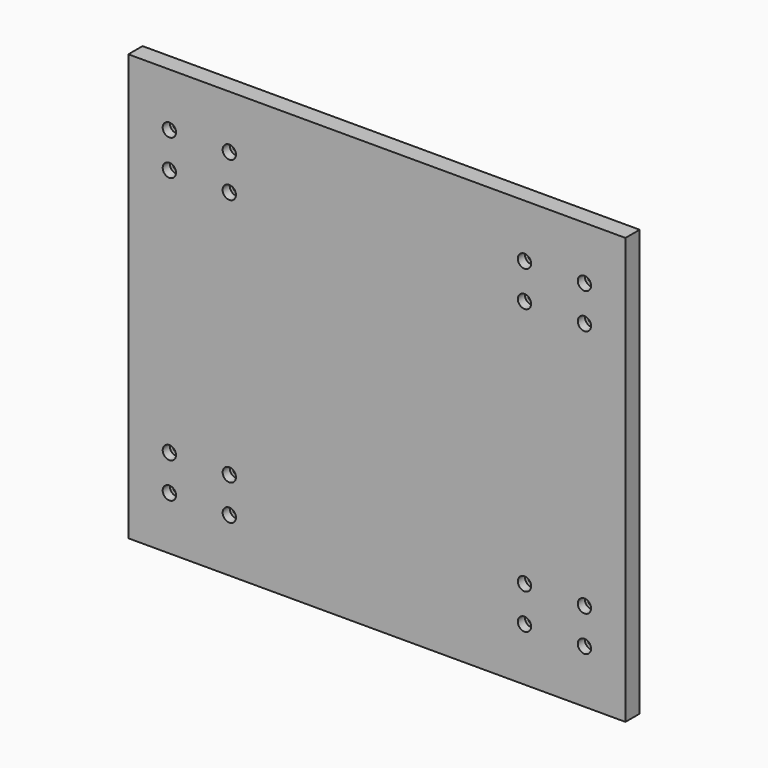
from build123d import *

# Parameters (mm, degrees)
F0_W           = 355.6
F0_H           = 304.8
F1_DEPTH       = 12.7
F3_D           = 4.7752
F3_CBORE_D     = 9.525
F3_CBORE_DEPTH = 6.35


with BuildPart() as f1:
    # F0 (on Front) → F1 (new body)
    with BuildSketch(Plane.XZ):
        with Locations((177.8, 152.4)):
            Rectangle(F0_W, F0_H)
    extrude(amount=F1_DEPTH)

    # F3 (through all)
    with Locations(Plane.XZ.offset(12.7)):
        with Locations((72.2122, 266.7), (72.2122, 241.3), (29.337, 241.3), (283.3624, 266.7), (283.3624, 241.3), (326.2376, 241.3), (326.2376, 266.7), (283.3624, 63.5), (326.2376, 38.1), (326.2376, 63.5), (283.3624, 38.1), (72.2122, 63.5), (72.2122, 38.1), (29.337, 38.1), (29.337, 63.5), (29.337, 266.7)):
            CounterBoreHole(F3_D / 2, F3_CBORE_D / 2, F3_CBORE_DEPTH)


solid = f1.part
